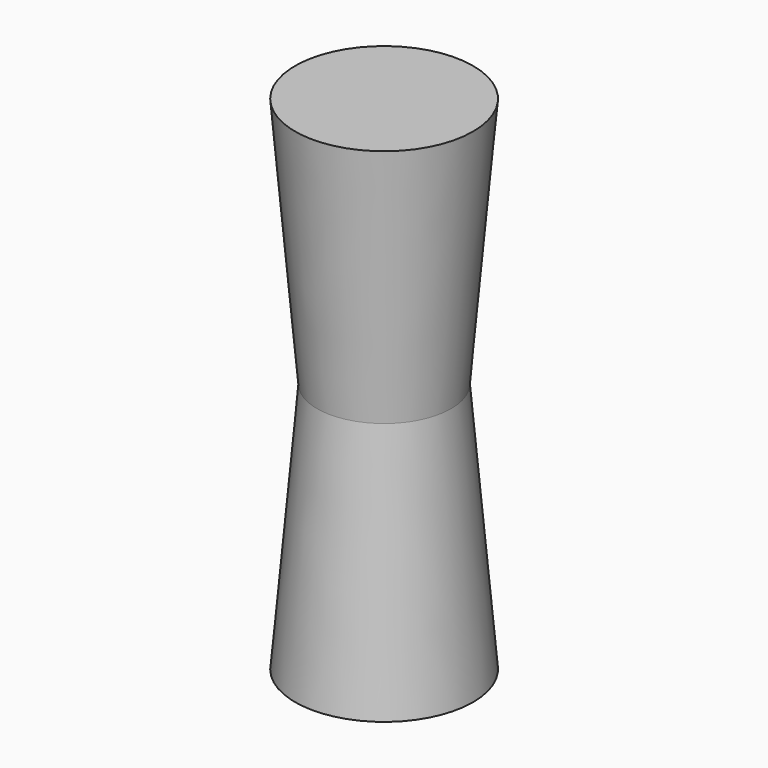
from build123d import *

# Parameters (mm, degrees)
F0_R     = 20
F1_DEPTH = 75
F1_TAPER = -5


with BuildPart() as f1:
    # F0 (on Top) → F1 (new body, symmetric)
    with BuildSketch(Plane.XY):
        Circle(F0_R)
    extrude(amount=F1_DEPTH, both=True, taper=F1_TAPER)


solid = f1.part
